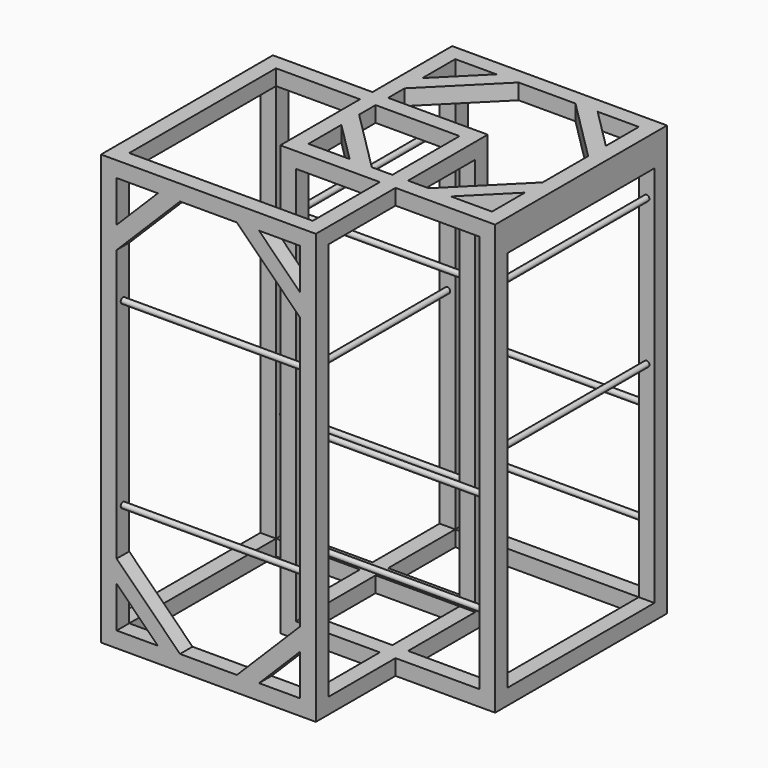
from build123d import *

# Parameters (mm, degrees)
F0_W       = 88.9
F0_H       = 88.9
F1_DEPTH   = 88.9
F2_W       = 88.9
F2_H       = 88.9
F3_DEPTH   = 2260.6
F4_W       = 88.9
F4_H       = 88.9
F4_W_2     = 1041.4
F4_H_2     = 1041.4
F5_DEPTH   = 88.9
F0_W_2     = 476.25
F0_H_2     = 1041.4
F0_W_3     = 1041.4
F0_H_3     = 476.25
F6_DEPTH   = 88.9
F7_DEPTH   = 2438.4
F8_W       = 1041.4
F8_H       = 1041.4
F8_W_2     = 88.9
F8_H_2     = 88.9
F9_DEPTH   = 88.9
F10_R      = 15.875
F11_DEPTH  = 1219.2
F12_R      = 15.875
F13_DEPTH  = 1219.2
F14_R      = 15.875
F15_DEPTH  = 1219.2
F17_DEPTH  = 88.9
F9_FACE3_W = 88.9
F9_FACE3_H = 1041.4
F19_DEPTH  = 88.9


with BuildPart() as f1:
    # F0 (on Top) → F1 (new body)
    with BuildSketch(Plane.XY):
        Polygon((1130.3, 654.05), (1219.2, 654.05), (1219.2, 1219.2), (654.05, 1219.2), (654.05, 1130.3), (1130.3, 1130.3), align=None)
        with Locations((1174.75, 609.6)):
            Rectangle(F0_W, F0_H)
        Polygon((0, 1219.2), (0, 0), (1219.2, 0), (1219.2, 565.15), (1130.3, 565.15), (1130.3, 88.9), (88.9, 88.9), (88.9, 1130.3), (565.15, 1130.3), (565.15, 1219.2), align=None)
        with Locations((609.6, 1174.75)):
            Rectangle(F0_W, F0_H)
    extrude(amount=F1_DEPTH)

    # F2 (on face) → F3 (join)
    with BuildSketch(Plane.XY.offset(88.9)):
        with Locations((44.45, 1174.75)):
            Rectangle(F2_W, F2_H)
        with Locations((1174.75, 1174.75)):
            Rectangle(F2_W, F2_H)
        with Locations((1174.75, 44.45)):
            Rectangle(F2_W, F2_H)
        with Locations((44.45, 44.45)):
            Rectangle(F2_W, F2_H)
    extrude(amount=F3_DEPTH)

    # F4 (on face) → F5 (join)
    with BuildSketch(Plane.XY.offset(2349.5)):
        with Locations((44.45, 1174.75)):
            Rectangle(F4_W, F4_H)
        Polygon((1219.2, 1219.2), (88.9, 1219.2), (88.9, 1130.3), (0, 1130.3), (0, 0), (1219.2, 0), align=None)
        with Locations((609.6, 609.6)):
            Rectangle(F4_W_2, F4_H_2, mode=Mode.SUBTRACT)
    extrude(amount=F5_DEPTH)

    # F0 (on Top) → F6 (join)
    with BuildSketch(Plane.XY):
        with Locations((1457.325, 609.6)):
            Rectangle(F0_W_2, F0_H)
        with Locations((892.175, 609.6)):
            Rectangle(F0_W_2, F0_H)
        with Locations((1739.9, 1174.75)):
            Rectangle(F0_W, F0_H_2)
        with Locations((1174.75, 1739.9)):
            Rectangle(F0_W_3, F0_H)
        with Locations((609.6, 1457.325)):
            Rectangle(F0_W, F0_H_3)
        with Locations((609.6, 892.175)):
            Rectangle(F0_W, F0_H_3)
        with Locations((1174.75, 609.6)):
            Rectangle(F0_W, F0_H)
        with Locations((609.6, 1174.75)):
            Rectangle(F0_W, F0_H)
        with Locations((1739.9, 609.6)):
            Rectangle(F0_W, F0_H)
        with Locations((1739.9, 1739.9)):
            Rectangle(F0_W, F0_H)
        with Locations((609.6, 1739.9)):
            Rectangle(F0_W, F0_H)
        with Locations((609.6, 609.6)):
            Rectangle(F0_W, F0_H)
    extrude(amount=F6_DEPTH)

    # F0 (on Top) → F7 (join)
    with BuildSketch(Plane.XY):
        with Locations((1739.9, 609.6)):
            Rectangle(F0_W, F0_H)
        with Locations((609.6, 609.6)):
            Rectangle(F0_W, F0_H)
        with Locations((609.6, 1739.9)):
            Rectangle(F0_W, F0_H)
        with Locations((1739.9, 1739.9)):
            Rectangle(F0_W, F0_H)
    extrude(amount=F7_DEPTH)

    # F8 (on face) → F9 (join)
    with BuildSketch(Plane.XY.offset(2438.4)):
        Polygon((1784.35, 1784.35), (565.15, 1784.35), (565.15, 654.05), (654.05, 654.05), (654.05, 565.15), (1784.35, 565.15), align=None)
        with Locations((1174.75, 1174.75)):
            Rectangle(F8_W, F8_H, mode=Mode.SUBTRACT)
        with Locations((609.6, 609.6)):
            Rectangle(F8_W_2, F8_H_2)
    extrude(amount=-F9_DEPTH)

    # F10 (on face) → F11 (join, through all)
    with BuildSketch(Plane(origin=(0, 0, 0), x_dir=(0, -1, 0), z_dir=(-1, 0, 0))):
        with Locations((-1174.75, 1720.2750444412)):
            Circle(F10_R)
        with Locations((-1174.75, 698.5)):
            Circle(F10_R)
        with Locations((-44.45, 1720.2750444412)):
            Circle(F10_R)
        with Locations((-44.45, 698.5)):
            Circle(F10_R)
    extrude(amount=-F11_DEPTH)

    # F12 (on face) → F13 (join, through all)
    with BuildSketch(Plane(origin=(0, 1784.35, 0), x_dir=(-1, 0, 0), z_dir=(0, 1, 0))):
        with Locations((-609.6, 2098.0279445648)):
            Circle(F12_R)
        with Locations((-609.6, 1269.1702842712)):
            Circle(F12_R)
        with Locations((-1739.9, 2098.0279445648)):
            Circle(F12_R)
        with Locations((-1739.9, 1269.1702842712)):
            Circle(F12_R)
    extrude(amount=-F13_DEPTH)

    # F14 (on face) → F15 (join, through all)
    with BuildSketch(Plane.YZ.offset(1784.35)):
        with Locations((609.6, 1039.6921634674)):
            Circle(F14_R)
        with Locations((1739.9, 1039.6921634674)):
            Circle(F14_R)
        with Locations((1739.9, 464.359909296)):
            Circle(F14_R)
        with Locations((609.6, 464.359909296)):
            Circle(F14_R)
    extrude(amount=-F15_DEPTH)

    # F16 (on face) → F17 (join, through all)
    with BuildSketch(Plane.XZ):
        Polygon((88.9, 1990.2897551572), (448.1102448428, 2349.5), (322.3866591478, 2349.5), (88.9, 2116.0133408522), align=None)
        Polygon((771.0897551572, 2349.5), (1130.3, 1990.2897551572), (1130.3, 2116.0133408522), (896.8133408522, 2349.5), align=None)
        Polygon((1130.3, 322.3866591478), (1130.3, 448.1102448428), (771.0897551572, 88.9), (896.8133408522, 88.9), align=None)
        Polygon((322.3866591478, 88.9), (448.1102448428, 88.9), (88.9, 448.1102448428), (88.9, 322.3866591478), align=None)
    extrude(amount=-F17_DEPTH)

    # F18 (on face) + F9_face3 (on face) → F19 (join)
    with BuildSketch(Plane.XY.offset(2438.4)):
        Polygon((887.5366591478, 1695.45), (654.05, 1461.9633408522), (654.05, 1336.2397551572), (1013.2602448428, 1695.45), align=None)
        Polygon((1461.9633408522, 1695.45), (1336.2397551572, 1695.45), (1695.45, 1336.2397551572), (1695.45, 1461.9633408522), align=None)
        Polygon((1695.45, 887.5366591478), (1695.45, 1013.2602448428), (1336.2397551572, 654.05), (1461.9633408522, 654.05), align=None)
        Polygon((887.5366591478, 654.05), (1013.2602448428, 654.05), (654.05, 1013.2602448428), (654.05, 887.5366591478), align=None)
    with BuildSketch(Plane(origin=(1739.9, 1174.75, 2349.5), x_dir=(1, 0, 0), z_dir=(0, 0, -1))):
        Rectangle(F9_FACE3_W, F9_FACE3_H)
    extrude(amount=-F19_DEPTH, dir=(0, 0, 1))


solid = f1.part
